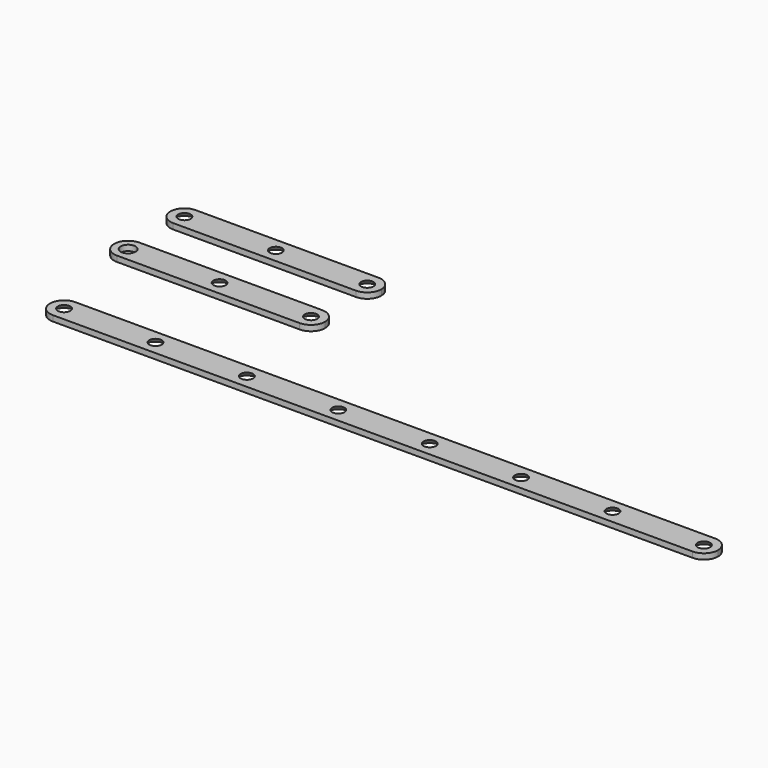
from build123d import *

# Parameters (mm, degrees)
F1_DEPTH        = 8
F3_D            = 17.5
F3_CSINK_D      = 33.6
F3_CSINK_ANGLE  = 90
F5_DEPTH        = 8
F7_D            = 17.5
F7_CSINK_D      = 33.6
F7_CSINK_ANGLE  = 90
F9_D            = 21
F11_D           = 17.5
F11_CSINK_D     = 33.6
F11_CSINK_ANGLE = 90


with BuildPart() as f1:
    # F0 (on Top) → F1 (new body)
    with BuildSketch(Plane.XY):
        with BuildLine():
            Line((-455, -20), (455, -20))
            ThreePointArc((455, -20), (469.1421356237, -14.1421356237), (475, 0))
            ThreePointArc((475, 0), (469.1421356237, 14.1421356237), (455, 20))
            Line((455, 20), (-455, 20))
            ThreePointArc((-455, 20), (-469.1421356237, 14.1421356237), (-475, 0))
            ThreePointArc((-475, 0), (-469.1421356237, -14.1421356237), (-455, -20))
        make_face()
    extrude(amount=F1_DEPTH)

    # F3 (through all)
    with Locations(Plane(origin=(0, 0, 0), x_dir=(1, 0, 0), z_dir=(0, 0, -1))):
        with Locations((-455, 0), (-325, 0), (-195, 0), (-65, 0), (65, 0), (195, 0), (325, 0), (455, 0)):
            CounterSinkHole(F3_D / 2, F3_CSINK_D / 2, counter_sink_angle=F3_CSINK_ANGLE)


with BuildPart() as f5:
    # F4 (on Top) → F5 (new body)
    with BuildSketch(Plane.XY):
        with BuildLine():
            Line((-488.89799788, 136.3150814176), (-228.89799788, 136.3150814176))
            ThreePointArc((-228.89799788, 136.3150814176), (-214.7558622562, 142.1729457938), (-208.89799788, 156.3150814176))
            ThreePointArc((-208.89799788, 156.3150814176), (-214.7558622562, 170.4572170413), (-228.89799788, 176.3150814176))
            Line((-228.89799788, 176.3150814176), (-488.89799788, 176.3150814176))
            ThreePointArc((-488.89799788, 176.3150814176), (-503.0401335037, 170.4572170413), (-508.89799788, 156.3150814176))
            ThreePointArc((-508.89799788, 156.3150814176), (-503.0401335037, 142.1729457938), (-488.89799788, 136.3150814176))
        make_face()
    extrude(amount=F5_DEPTH)

    # F7 (through all)
    with Locations(Plane(origin=(0, 0, 0), x_dir=(1, 0, 0), z_dir=(0, 0, -1))):
        with Locations((-358.89799788, -156.3150814176), (-228.89799788, -156.3150814176)):
            CounterSinkHole(F7_D / 2, F7_CSINK_D / 2, counter_sink_angle=F7_CSINK_ANGLE)


with BuildPart() as f8_1:
    # F8: copy of F5
    add(f5.part.moved(Location((0, 100, 0))))

    # F11 (through all)
    with Locations(Plane(origin=(0, 0, 0), x_dir=(1, 0, 0), z_dir=(0, 0, -1))):
        with Locations((-488.89799788, -256.3150814176)):
            CounterSinkHole(F11_D / 2, F11_CSINK_D / 2, counter_sink_angle=F11_CSINK_ANGLE)


with BuildPart() as f5_1:
    add(f5.part)

    # F9 (through all)
    with Locations(Plane(origin=(0, 0, 0), x_dir=(1, 0, 0), z_dir=(0, 0, -1))):
        with Locations((-488.89799788, -156.3150814176)):
            Hole(F9_D / 2)


solid = Compound([f1.part, f8_1.part, f5_1.part])
